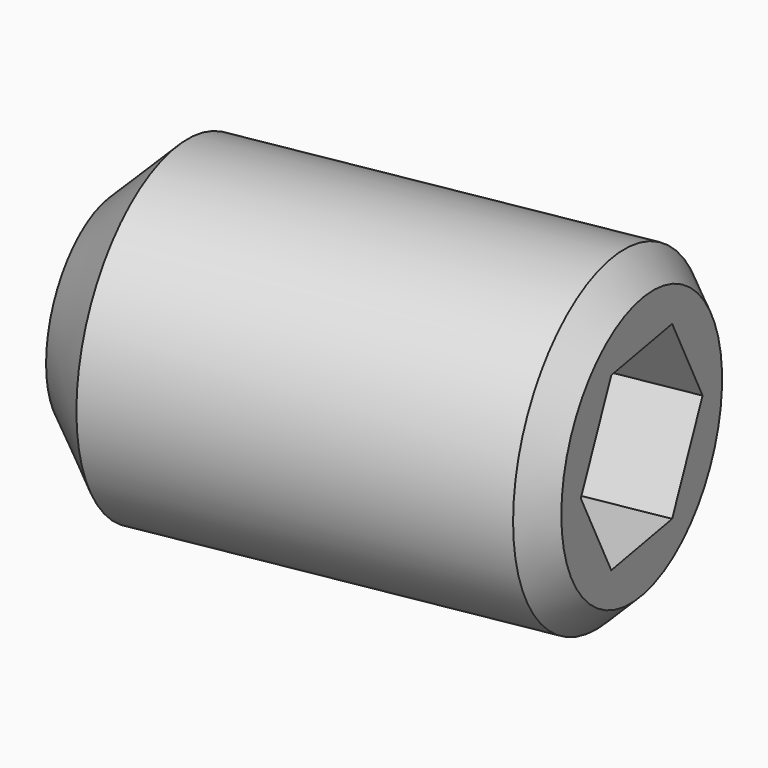
from build123d import *

# Parameters (mm, degrees)
SKETCH119_W             = 2
SKETCH119_H             = 6
POCKET017_DEPTH         = 2
CHAMFER006_SIZE         = 0.35
CHAMFER007_SIZE         = 0.75
BODY020_PLACEMENT_ANGLE = 90
BODY021_PLACEMENT_ANGLE = 10
BODY024_PLACEMENT_ANGLE = 90


with BuildPart() as part:
    # Sketch119 → Revolution002 (revolve)
    with BuildSketch(Plane.XZ):
        with Locations((-1, 3)):
            Rectangle(SKETCH119_W, SKETCH119_H)
    revolve(axis=Axis((0, 0, 0), (0, 0, 1)))

    # Sketch124 (on Face3 of Revolution002) → Pocket017 (cut)
    with BuildSketch(Plane(origin=(0, 0, 6), x_dir=(-1, 0, 0), z_dir=(0, 0, 1))):
        Polygon((-0.625, -1.0825317547), (0.625, -1.0825317547), (1.25, 0), (0.625, 1.0825317547), (-0.625, 1.0825317547), (-1.25, 0), align=None)
    extrude(amount=-POCKET017_DEPTH, mode=Mode.SUBTRACT)

    # Chamfer006
    chamfer006_edges = [part.edges().sort_by_distance(p)[0] for p in [
        (2, 0, 6),
    ]]
    chamfer(chamfer006_edges, length=CHAMFER006_SIZE)

    # Chamfer007
    chamfer007_edges = [part.edges().sort_by_distance(p)[0] for p in [
        (2, 0, 0),
    ]]
    chamfer(chamfer007_edges, length=CHAMFER007_SIZE)


with BuildPart() as part_1:
    # Body020 placement: moved
    add(part.part.moved(Location((0, -3, 4))).rotate(Axis((0, -3, 4), (1, 0, 0)), BODY020_PLACEMENT_ANGLE))


with BuildPart() as part_2:
    # Clone001 placement: moved
    add(part_1.part.moved(Location((0, -1, 0))))


with BuildPart() as part_3:
    # Body021 placement: moved
    add(part_2.part.moved(Location((-0.1736481777, 0.984807753, 17))).rotate(Axis((-0.1736481777, 0.984807753, 17), (0, 0, 1)), BODY021_PLACEMENT_ANGLE))


with BuildPart() as part_4:
    # Clone003 placement: moved
    add(part_3.part.moved(Location((0.1736481777, -0.984807753, 0))))


with BuildPart() as part_5:
    # Body024 placement: moved
    add(part_4.part.moved(Location((-1, 0, 0))).rotate(Axis((-1, 0, 0), (0, 0, 1)), BODY024_PLACEMENT_ANGLE))


solid = part_5.part
